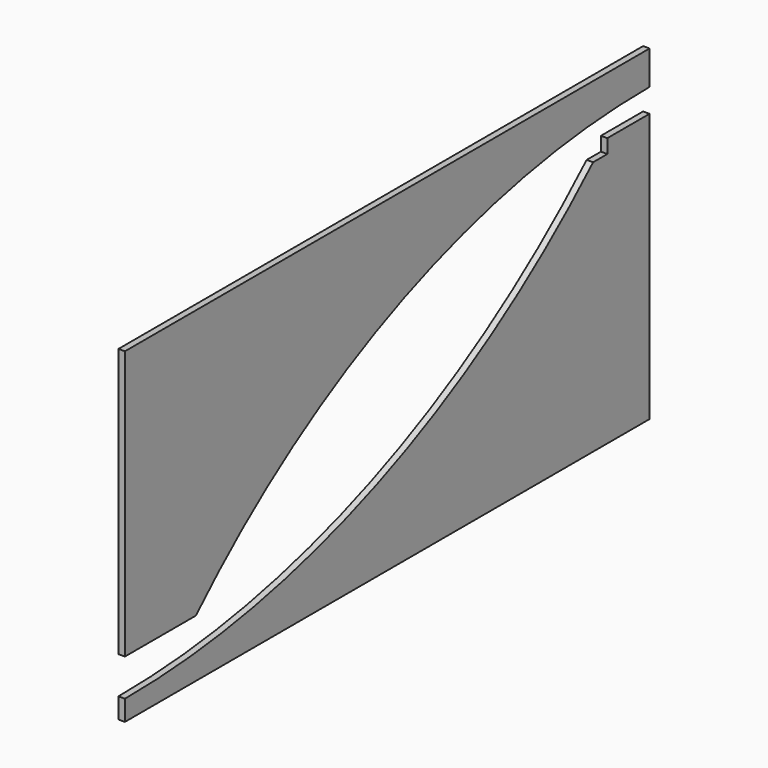
from build123d import *

# Parameters (mm, degrees)
F1_DEPTH = 12


with BuildPart() as f1:
    # F0 (on Right) → F1 (new body)
    with BuildSketch(Plane.YZ):
        with BuildLine():
            Line((-1104.633334, 0), (0, 0))
            Line((0, 0), (0, 500))
            Line((0, 500), (-98.172372, 500))
            Line((-98.172372, 500), (-98.172372, 474))
            Line((-98.172372, 474), (-131.254055, 474))
            ThreePointArc((-131.254055, 474), (-633.59917, 151.05124), (-1220, 38))
            Line((-1220, 38), (-1220, 0))
            Line((-1220, 0), (-1104.633334, 0))
        make_face()
        with BuildLine():
            Line((0, 544), (0, 607))
            Line((0, 607), (-1220, 607))
            Line((-1220, 607), (-1220, 107))
            Line((-1220, 107), (-1055.011327, 107))
            ThreePointArc((-1055.011327, 107), (-570.968016, 430.4274), (0, 544))
        make_face()
    extrude(amount=F1_DEPTH)


solid = f1.part
